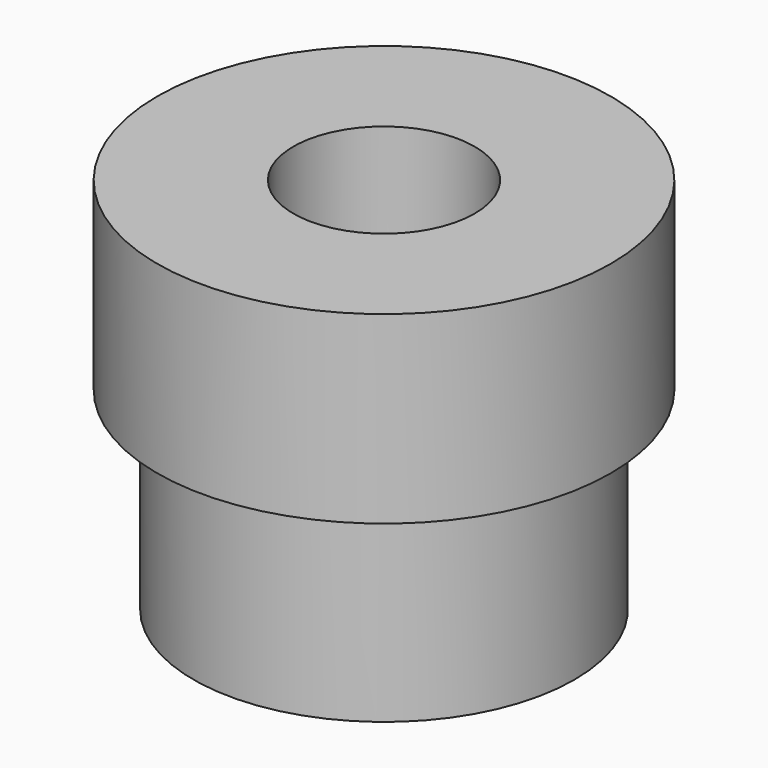
from build123d import *

# Parameters (mm, degrees)
F0_R     = 7.5
F0_R_2   = 3
F1_DEPTH = 12.5
F2_R     = 7.5
F2_R_2   = 6.3
F3_DEPTH = 6.4


with BuildPart() as f1:
    # F0 (on Top) → F1 (new body)
    with BuildSketch(Plane.XY):
        Circle(F0_R)
        Circle(F0_R_2, mode=Mode.SUBTRACT)
    extrude(amount=F1_DEPTH)

    # F2 (on Top) → F3 (cut)
    with BuildSketch(Plane.XY):
        Circle(F2_R)
        Circle(F2_R_2, mode=Mode.SUBTRACT)
    extrude(amount=F3_DEPTH, mode=Mode.SUBTRACT)


solid = f1.part
